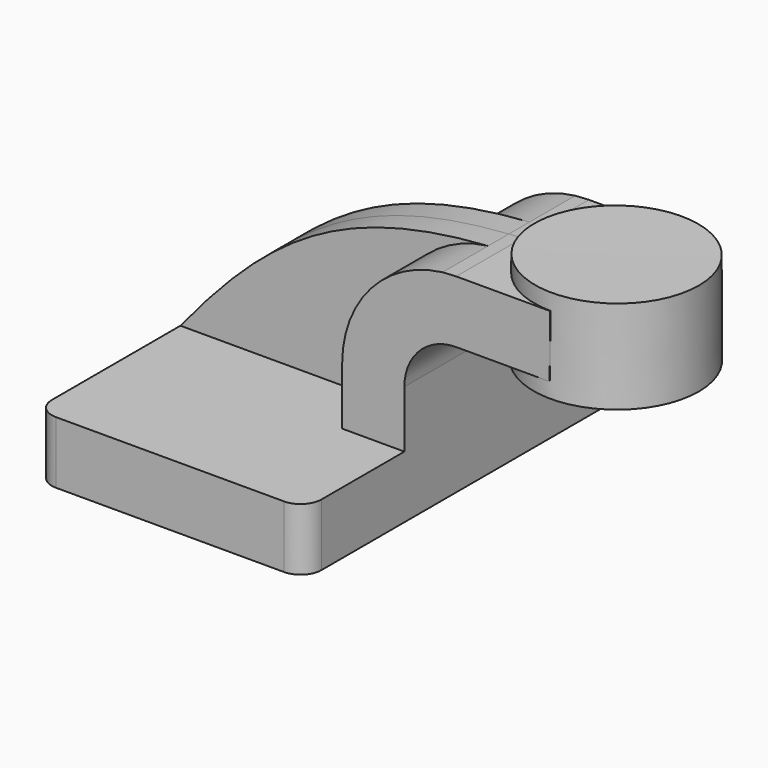
from build123d import *

# Parameters (mm, degrees)
F1_DEPTH = 63.5
F2_DEPTH = 25.4
F3_DEPTH = 7.9375
F5_R     = 6.35


with BuildPart() as f1:
    # F0 (on Front) → F1 (new body, symmetric)
    with BuildSketch(Plane.XZ):
        Polygon((41.275, -9.525), (41.275, 9.525), (22.225, 9.525), (-41.275, 9.525), (-41.275, -9.525), align=None)
    extrude(amount=F1_DEPTH, both=True)

    # F0 (on Front) → F2 (join, symmetric)
    with BuildSketch(Plane.XZ):
        with BuildLine():
            Line((22.225, 9.525), (41.275, 9.525))
            Line((41.275, 9.525), (41.275, 27.0002))
            ThreePointArc((41.275, 27.0002), (45.9246798487, 38.2255201513), (57.15, 42.8752))
            Line((57.15, 42.8752), (60.325, 42.8752))
            Line((60.325, 42.8752), (60.325, 61.9252))
            Line((60.325, 61.9252), (57.15, 61.9252))
            add(Edge.make_bspline(
                [(52.9513252364, 61.6718996299), (54.3293732693, 61.7682561346), (55.728666372, 61.8526413819), (57.15, 61.9252)],
                knots=[108.1713058896, 108.1713058896, 108.1713058896, 108.1713058896, 111.5045361635, 111.5045361635, 111.5045361635, 111.5045361635], degree=3))
            ThreePointArc((52.9513252364, 61.6718996299), (31.0119593206, 50.1639314446), (22.225, 27.0002))
            Line((22.225, 27.0002), (22.225, 9.525))
        make_face()
        Polygon((60.325, 61.9252), (60.325, 42.8752), (85.7630187815, 42.8752), (85.9146894524, 61.9252), align=None)
    extrude(amount=F2_DEPTH, both=True)

    # F0 (on Front) → F3 (join, symmetric)
    with BuildSketch(Plane.XZ):
        with BuildLine():
            Line((-41.275, 9.525), (22.225, 9.525))
            Line((22.225, 9.525), (22.225, 27.0002))
            ThreePointArc((22.225, 27.0002), (31.0119593206, 50.1639314446), (52.9513252364, 61.6718996299))
            add(Edge.make_bspline(
                [(-41.275, 9.525), (-14.1161793471, 42.8102760559), (8.2303659697, 58.5449002676), (52.9513252364, 61.6718996299)],
                knots=[0, 0, 0, 0, 108.1713058896, 108.1713058896, 108.1713058896, 108.1713058896], degree=3))
        make_face()
    extrude(amount=F3_DEPTH, both=True)

    # F0 (on Front) → F4 (revolve)
    with BuildSketch(Plane.XZ):
        Polygon((85.9146894524, 61.9252), (85.7630187815, 42.8752), (85.725, 38.1), (111.125, 38.1), (111.125, 66.675), (85.9525060063, 66.675), align=None)
    revolve(axis=Axis((85.8387530032, 0, 52.3875), (0.0079614627, 0, 0.9999683071)))

    # F5
    f5_edges = [f1.edges().sort_by_distance(p)[0] for p in [
        (41.275, 63.5, 0),
        (-41.275, 63.5, 0),
        (-41.275, -63.5, 0),
        (41.275, -63.5, 0),
    ]]
    fillet(f5_edges, radius=F5_R)


solid = f1.part
